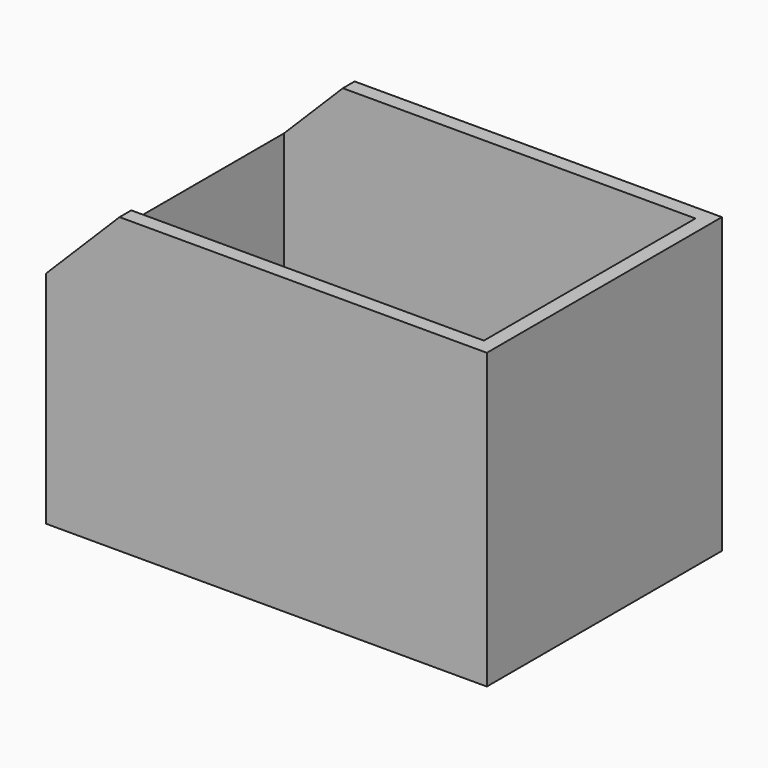
from build123d import *

# Parameters (mm, degrees)
F0_W          = 30
F0_H          = 20
F1_DEPTH      = 10
F1_DEPTH_BACK = 10
F2_SIZE       = 5
F3_T          = -1


with BuildPart() as f1:
    # F0 (on Front) → F1 (new body, two sides)
    with BuildSketch(Plane.XZ) as f1_sk:
        Rectangle(F0_W, F0_H)
    extrude(amount=-F1_DEPTH)
    extrude(f1_sk.sketch, amount=F1_DEPTH_BACK)

    # F2
    f2_edges = [f1.edges().sort_by_distance(p)[0] for p in [
        (-15, 0, 10),
    ]]
    chamfer(f2_edges, length=F2_SIZE)

    # F3
    f3_openings = [f1.faces().sort_by_distance(p)[0] for p in [
        (2.5, 0, 10),
        (-12.5, 0, 7.5),
    ]]
    offset(amount=F3_T, openings=f3_openings)


solid = f1.part
